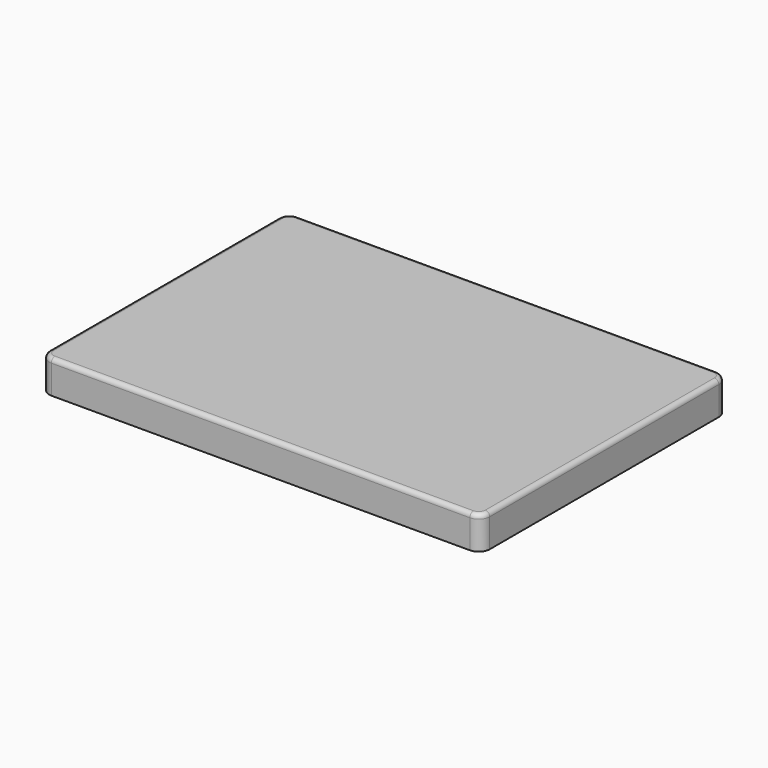
from build123d import *

# Parameters (mm, degrees)
F1_DEPTH = 150
F2_R     = 20


with BuildPart() as f1:
    # F0 (on Top) → F1 (new body)
    with BuildSketch(Plane.XY):
        with BuildLine():
            Line((950, 700), (-950, 700))
            ThreePointArc((-950, 700), (-985.355339, 685.355339), (-1000, 650))
            Line((-1000, 650), (-1000, -650))
            ThreePointArc((-1000, -650), (-985.355339, -685.355339), (-950, -700))
            Line((-950, -700), (950, -700))
            ThreePointArc((950, -700), (985.355339, -685.355339), (1000, -650))
            Line((1000, -650), (1000, 650))
            ThreePointArc((1000, 650), (985.355339, 685.355339), (950, 700))
        make_face()
    extrude(amount=F1_DEPTH)

    # F2
    f2_edges = [f1.edges().sort_by_distance(p)[0] for p in [
        (0, -700, 150),
        (-985.355339, -685.355339, 150),
        (-1000, 0, 150),
        (0, 700, 150),
        (985.355339, 685.355339, 150),
        (985.355339, -685.355339, 150),
        (1000, 0, 150),
    ]]
    fillet(f2_edges, radius=F2_R)


solid = f1.part
